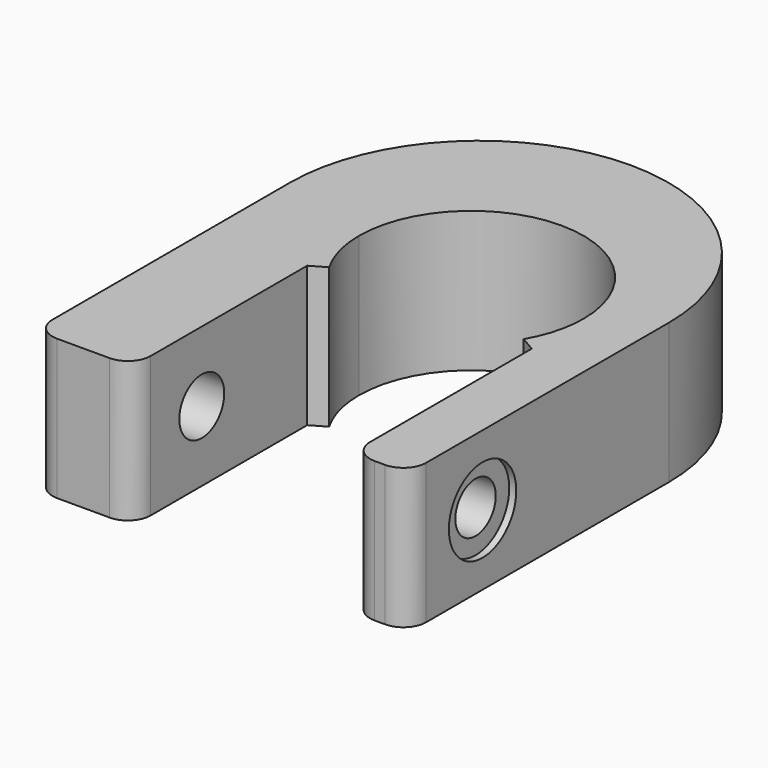
from build123d import *

# Parameters (mm, degrees)
CYLINDER011024_R               = 1.8
CYLINDER011024_DEPTH           = 20
CYLINDER011020_R               = 3
CYLINDER011020_DEPTH           = 20
CYLINDER011027_R               = 2
CYLINDER011027_DEPTH           = 20
CYLINDER011022_R               = 8
CYLINDER011022_DEPTH           = 10
CYLINDER011023_W               = 11
CYLINDER011023_H               = 10
CYLINDER011023_ANGLE           = 240
CYLINDER011023_PLACEMENT_ANGLE = 150
PAD001_DEPTH                   = 10


with BuildPart() as bolt_hole004:
    # Cylinder011024 → Cylinder011024 (new body)
    with BuildSketch(Plane(origin=(-1, 14, 5), x_dir=(0, 0, -1), z_dir=(1, 0, 0))):
        Circle(CYLINDER011024_R)
    extrude(amount=CYLINDER011024_DEPTH)


with BuildPart() as bolt_head_hole001:
    # Cylinder011020 → Cylinder011020 (new body)
    with BuildSketch(Plane(origin=(11.5, 14, 5), x_dir=(0, 0, -1), z_dir=(1, 0, 0))):
        Circle(CYLINDER011020_R)
    extrude(amount=CYLINDER011020_DEPTH)


with BuildPart() as obj1:
    # Cylinder011027 → Cylinder011027 (new body)
    with BuildSketch(Plane(origin=(-22, 14, 5), x_dir=(0, 0, -1), z_dir=(1, 0, 0))):
        Circle(CYLINDER011027_R)
    extrude(amount=CYLINDER011027_DEPTH)

    # Fusion009: union bolt hole004, bolt head hole001
    add(bolt_hole004.part)
    add(bolt_head_hole001.part)


with BuildPart() as cylinder011022:
    # Cylinder011022 → Cylinder011022 (new body)
    with BuildSketch(Plane.XY):
        Circle(CYLINDER011022_R)
    extrude(amount=CYLINDER011022_DEPTH)


with BuildPart() as cut023015009018:
    # Cylinder011023 → Cylinder011023 (revolve)
    with BuildSketch(Plane.XZ):
        with Locations((5.5, 5)):
            Rectangle(CYLINDER011023_W, CYLINDER011023_H)
    revolve(axis=Axis((0, 0, 0), (0, 0, 1)), revolution_arc=CYLINDER011023_ANGLE)


with BuildPart() as cut023015009018_1:
    # Cylinder011023 placement: moved
    add(cut023015009018.part.rotate(Axis((0, 0, 0), (0, 0, 1)), CYLINDER011023_PLACEMENT_ANGLE))

    # Cut023015009018: cut Cylinder011022
    add(cylinder011022.part, mode=Mode.SUBTRACT)


with BuildPart() as shaft_attachment_cut001:
    # Sketch004 → Pad001 (new body)
    with BuildSketch(Plane.XY):
        with BuildLine():
            Line((12, -2.57721), (12, 19.017869))
            ThreePointArc((12, 19.017869), (11.523224, 20.168908), (10.372186, 20.645684))
            Line((10.372186, 20.645684), (9.627814, 20.645684))
            ThreePointArc((9.627814, 20.645684), (8.476776, 20.168908), (8, 19.017869))
            Line((8, 19.017869), (8, 0))
            ThreePointArc((-8, 0), (0, -8), (8, 0))
            Line((-8, 0), (-8, 18.544726))
            ThreePointArc((-8, 18.544726), (-8.476776, 19.695765), (-9.627814, 20.17254))
            Line((-9.627814, 20.17254), (-13.372186, 20.17254))
            ThreePointArc((-13.372186, 20.17254), (-14.523224, 19.695765), (-15, 18.544726))
            Line((-15, 18.544726), (-15, -2.57721))
            ThreePointArc((-15, -2.57721), (-1.5, -16.07721), (12, -2.57721))
        make_face()
    extrude(amount=PAD001_DEPTH)

    # Fusion008: union Cut023015009018
    add(cut023015009018_1.part)

    # Cut023015009017: cut obj1
    add(obj1.part, mode=Mode.SUBTRACT)


with BuildPart() as part_mirroring003:
    # Part__Mirroring003: instance of shaft attachment  cut001
    add(shaft_attachment_cut001.part.mirror(Plane(origin=(0, -50, 0), x_dir=(1, 0, 0), z_dir=(0, 1, 0))))


solid = part_mirroring003.part
